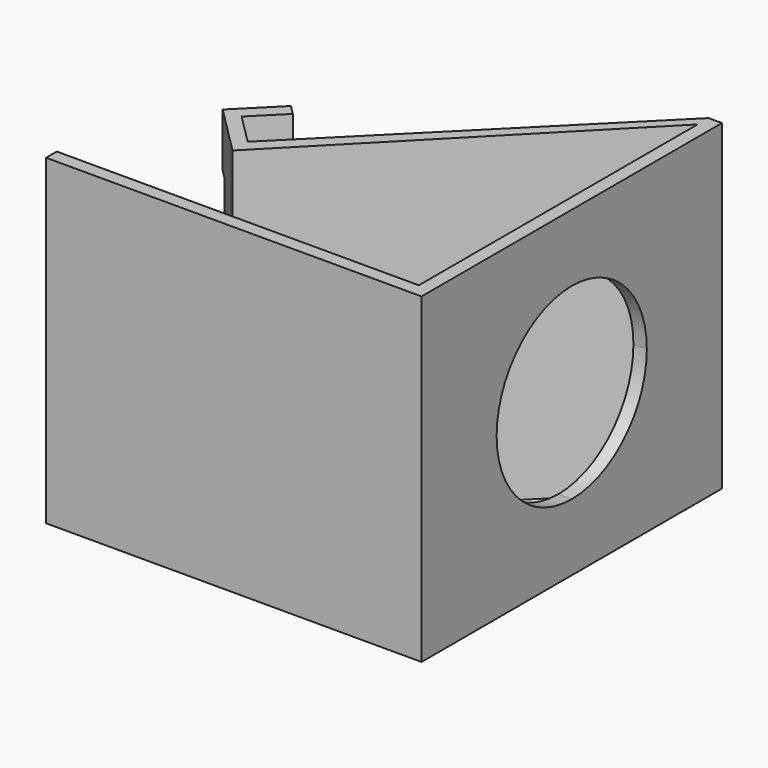
from build123d import *

# Parameters (mm, degrees)
F2_DEPTH = 76.2
F3_W     = 12.7
F3_H     = 50.8
F4_DEPTH = 3.175
F6_DEPTH = 12.7


with BuildPart() as f2:
    # F1 (on Top) → F2 (new body)
    with BuildSketch(Plane.XY):
        Polygon((-44.45, 3.175), (-44.45, 0), (44.45, 0), (44.45, 3.175), (41.275, 3.175), align=None)
        Polygon((41.275, 3.175), (44.45, 3.175), (44.45, 88.9), (41.275, 85.659533), align=None)
        Polygon((-19.318937, 23.816169), (41.275, 85.659533), (41.275, 88.9), (-19.341729, 28.283271), (-21.586793, 26.038207), align=None)
        Polygon((-21.586793, 26.038207), (-19.341729, 28.283271), (-26.525934, 35.467476), (-19.790742, 42.202668), (-22.035806, 44.447732), (-31.016062, 35.467476), align=None)
        Polygon((41.275, 85.659533), (44.45, 88.9), (41.275, 88.9), align=None)
    extrude(amount=F2_DEPTH)

    # F3 (on face) → F4 (cut)
    with BuildSketch(Plane(origin=(-33.241769, 33.241769, 0), x_dir=(-0.707107, -0.707107, 0), z_dir=(-0.707107, 0.707107, 0))):
        with Locations((-9.497625, 38.1)):
            Rectangle(F3_W, F3_H)
    extrude(amount=-F4_DEPTH, mode=Mode.SUBTRACT)

    # F5 (on face) → F6 (cut)
    with BuildSketch(Plane.YZ.offset(44.45)):
        with BuildLine():
            ThreePointArc((44.45, 15.875), (60.165448, 22.384552), (66.675, 38.1))
            ThreePointArc((66.675, 38.1), (60.165448, 53.815448), (44.45, 60.325))
            Line((44.45, 60.325), (44.45, 15.875))
        make_face()
        with BuildLine():
            Line((44.45, 15.875), (44.45, 60.325))
            ThreePointArc((44.45, 60.325), (22.225, 38.1), (44.45, 15.875))
        make_face()
    extrude(amount=-F6_DEPTH, mode=Mode.SUBTRACT)


solid = f2.part
